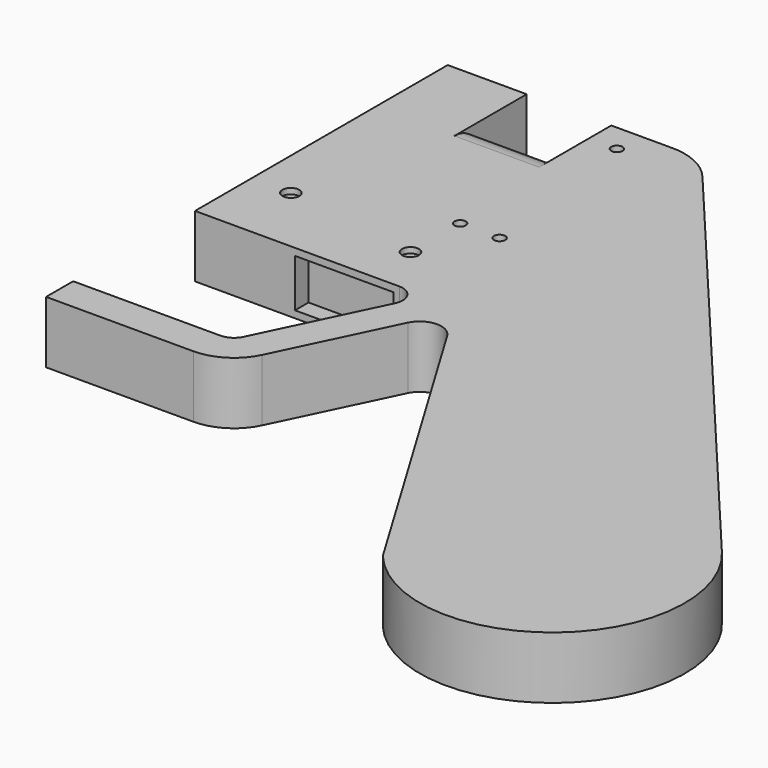
from build123d import *

# Parameters (mm, degrees)
F0_R      = 1
F1_DEPTH  = 5.5
F3_DEPTH  = 25
F4_R      = 1
F5_DEPTH  = 11.001
F6_W      = 17.5
F6_H      = 8.5
F7_DEPTH  = 3
F8_R      = 1.25
F9_DEPTH  = 2
F10_R     = 1.5
F11_DEPTH = 1
F12_R     = 1.5
F13_DEPTH = 1


with BuildPart() as f1:
    # F0 (on Top) → F1 (new body, symmetric)
    with BuildSketch(Plane.XY):
        with BuildLine():
            Line((0, 56), (0, 0))
            Line((0, 0), (36.2259279858, 0))
            ThreePointArc((36.2259279858, 0), (38.7660402441, -1.4038077448), (38.9289329951, -4.3014468563))
            Line((38.9289329951, -4.3014468563), (28.817821884, -25.3014468563))
            ThreePointArc((28.817821884, -25.3014468563), (27.7110091299, -26.5401122582), (26.1148168747, -27))
            Line((26.1148168747, -27), (0, -27))
            Line((0, -27), (0, -33))
            Line((0, -33), (26.1148168747, -33))
            ThreePointArc((26.1148168747, -33), (30.9033936403, -31.6203367747), (34.2238319025, -27.904340569))
            Line((34.2238319025, -27.904340569), (43.9565924234, -7.690145641))
            ThreePointArc((43.9565924234, -7.690145641), (47.3319268627, -5.59281579), (50.7608266635, -7.6013777725))
            Line((50.7608266635, -7.6013777725), (84.9360533184, -64.560088864))
            ThreePointArc((84.9360533184, -64.560088864), (118.0198171676, -67.4369378944), (120.8966661979, -34.3531740452))
            Line((120.8966661979, -34.3531740452), (48.4995788875, 51.8338346577))
            ThreePointArc((48.4995788875, 51.8338346577), (44.4862343011, 54.9569066089), (39.5090393722, 56))
            Line((39.5090393722, 56), (29, 56))
            Line((29, 56), (29, 40))
            Line((29, 40), (14, 40))
            Line((14, 40), (14, 56))
            Line((14, 56), (0, 56))
        make_face()
        with Locations((34, 51)):
            Circle(F0_R, mode=Mode.SUBTRACT)
    extrude(amount=F1_DEPTH, both=True)

    # F2 (on face) → F3 (join)
    with BuildSketch(Plane(origin=(29, 0, 0), x_dir=(0, -1, 0), z_dir=(-1, 0, 0))):
        with BuildLine():
            ThreePointArc((-40, 5.5), (-45.5, 0), (-40, -5.5))
            Line((-40, -5.5), (-40, 5.5))
        make_face()
    extrude(amount=F3_DEPTH)

    # F4 (on face) → F5 (cut, through all)
    with BuildSketch(Plane.XY.offset(5.5)):
        with Locations((31, 20)):
            Circle(F4_R)
        with Locations((38, 20)):
            Circle(F4_R)
    extrude(amount=-F5_DEPTH, mode=Mode.SUBTRACT)

    # F6 (on face) → F7 (cut)
    with BuildSketch(Plane.XZ):
        with Locations((26.4759279858, 0)):
            Rectangle(F6_W, F6_H)
    extrude(amount=-F7_DEPTH, mode=Mode.SUBTRACT)

    # F8 (on face) → F9 (cut)
    with BuildSketch(Plane(origin=(53.9634146341, 45.3292682927, 0), x_dir=(-0.6431920864, 0.7657048648, 0), z_dir=(0.7657048648, 0.6431920864, 0))):
        with Locations((-31.5051259772, 0)):
            Circle(F8_R)
        with Locations((-7.5051259772, 0)):
            Circle(F8_R)
    extrude(amount=-F9_DEPTH, mode=Mode.SUBTRACT)

    # F10 (on face) → F11 (cut)
    with BuildSketch(Plane.XY.offset(5.5)):
        with Locations((7, 12.5)):
            Circle(F10_R)
        with Locations((31, 9)):
            Circle(F10_R)
    extrude(amount=-F11_DEPTH, mode=Mode.SUBTRACT)

    # F12 (on face) → F13 (cut)
    with BuildSketch(Plane(origin=(0, 0, -5.5), x_dir=(1, 0, 0), z_dir=(0, 0, -1))):
        with Locations((7, -12.5)):
            Circle(F12_R)
        with Locations((31, -9)):
            Circle(F12_R)
    extrude(amount=-F13_DEPTH, mode=Mode.SUBTRACT)


solid = f1.part
